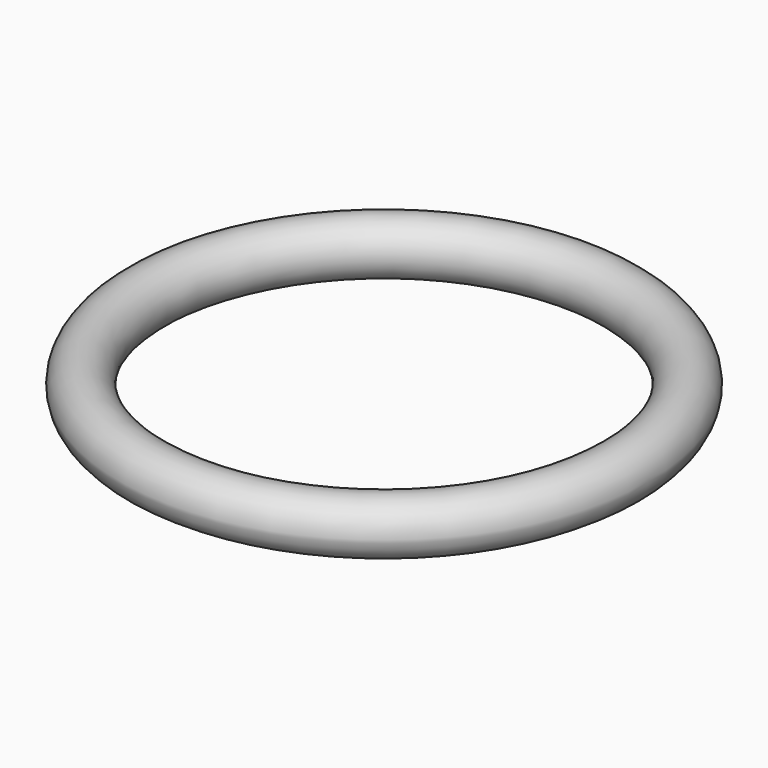
from build123d import *

# Parameters (mm, degrees)
F0_R = 10.16


with BuildPart() as f2:
    # F2: sweep along a path in F1
    with BuildLine(Plane.XY) as f2_path:
        CenterArc((-88.897621, 0.650404), 88.9, 0, 360)
    # F0 (on Front) → F2 (sweep)
    with BuildSketch(Plane.XZ):
        Circle(F0_R)
    sweep(path=f2_path.line)


solid = f2.part
